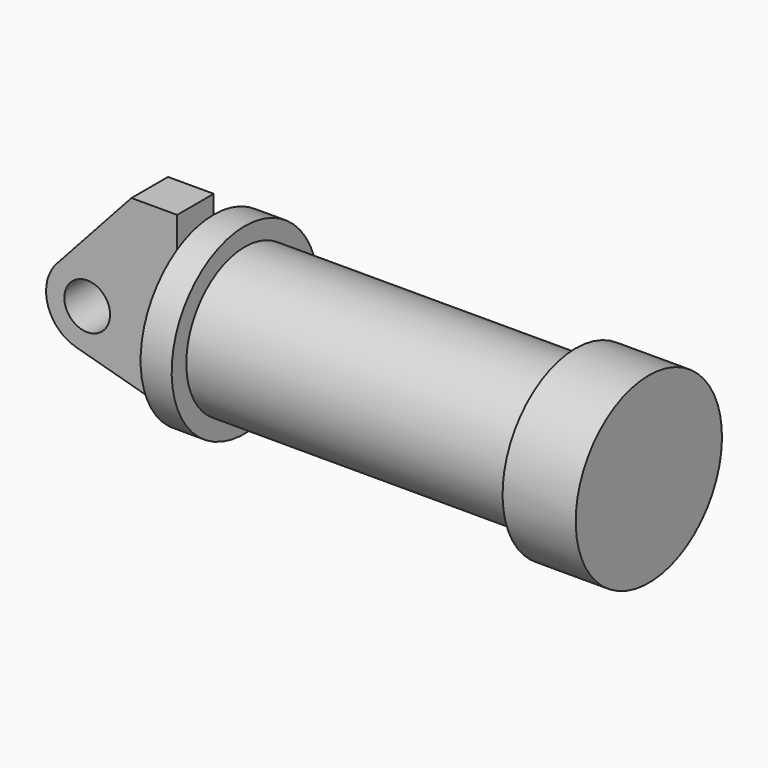
from build123d import *

# Parameters (mm, degrees)
F0_W     = 5.842
F0_H     = 12.7
F0_R     = 3.175
F2_DEPTH = 6.35


with BuildPart() as f1:
    # F0 (on Front) → F1 (revolve)
    with BuildSketch(Plane.XZ):
        Polygon((5.842, 12.7), (5.842, 0), (66.294, 0), (66.294, 12.7), (56.134, 12.7), (56.134, 10.16), (10.16, 10.16), (10.16, 12.7), align=None)
    revolve(axis=Axis((33.147, 0, 0), (-1, 0, 0)))

    # F0 (on Front) → F2 (join)
    with BuildSketch(Plane.XZ):
        with BuildLine():
            Line((-0.9398, 0), (0, 0))
            Line((0, 0), (0, 12.7))
            Line((0, 12.7), (5.842, 12.7))
            Line((5.842, 12.7), (5.842, 15.24))
            Line((5.842, 15.24), (-0.508, 15.24))
            Line((-0.508, 15.24), (-10.88063, 3.847543))
            ThreePointArc((-10.88063, 3.847543), (-4.591961, 5.329721), (-0.9398, 0))
        make_face()
        with Locations((2.921, 6.35)):
            Rectangle(F0_W, F0_H)
        with BuildLine():
            Line((5.842, 0), (0, 0))
            Line((0, 0), (-0.9398, 0))
            ThreePointArc((-0.9398, 0), (-3.195791, -4.549339), (-8.182663, -5.506983))
            Line((-8.182663, -5.506983), (5.842, -9.398))
            Line((5.842, -9.398), (5.842, 0))
        make_face()
        with BuildLine():
            ThreePointArc((-8.182663, -5.506983), (-3.195791, -4.549339), (-0.9398, 0))
            ThreePointArc((-0.9398, 0), (-4.591961, 5.329721), (-10.88063, 3.847543))
            ThreePointArc((-10.88063, 3.847543), (-12.145978, -1.583727), (-8.182663, -5.506983))
        make_face()
        with Locations((-6.6548, 0)):
            Circle(F0_R, mode=Mode.SUBTRACT)
    extrude(amount=F2_DEPTH)


solid = f1.part
